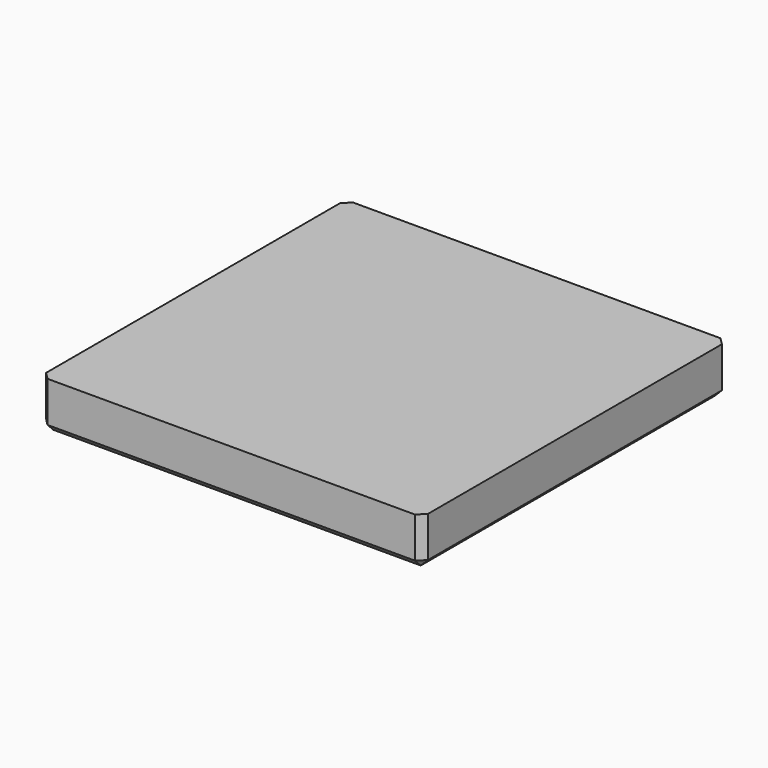
from build123d import *

# Parameters (mm, degrees)
F0_W     = 266
F0_H     = 33.3
F1_DEPTH = 266
F2_W     = 60.54271
F2_H     = 66
F3_DEPTH = 25
F4_SIZE  = 5


with BuildPart() as f1:
    # F0 (on Front) → F1 (new body)
    with BuildSketch(Plane.XZ):
        with Locations((3.64231, 16.65)):
            Rectangle(F0_W, F0_H)
    extrude(amount=F1_DEPTH)

    # F2 (on face) → F3 (cut)
    with BuildSketch(Plane(origin=(0, 0, 0), x_dir=(1, 0, 0), z_dir=(0, 0, -1))):
        with Locations((0, 133)):
            Rectangle(F2_W, F2_H)
    extrude(amount=-F3_DEPTH, mode=Mode.SUBTRACT)

    # F4
    f4_edges = [f1.edges().sort_by_distance(p)[0] for p in [
        (136.64231, -266, 16.65),
        (136.64231, 0, 16.65),
        (-129.35769, 0, 16.65),
        (-129.35769, -266, 16.65),
        (-129.35769, -133, 0),
        (3.64231, -266, 0),
        (136.64231, -133, 0),
        (3.64231, 0, 0),
    ]]
    chamfer(f4_edges, length=F4_SIZE)


solid = f1.part
